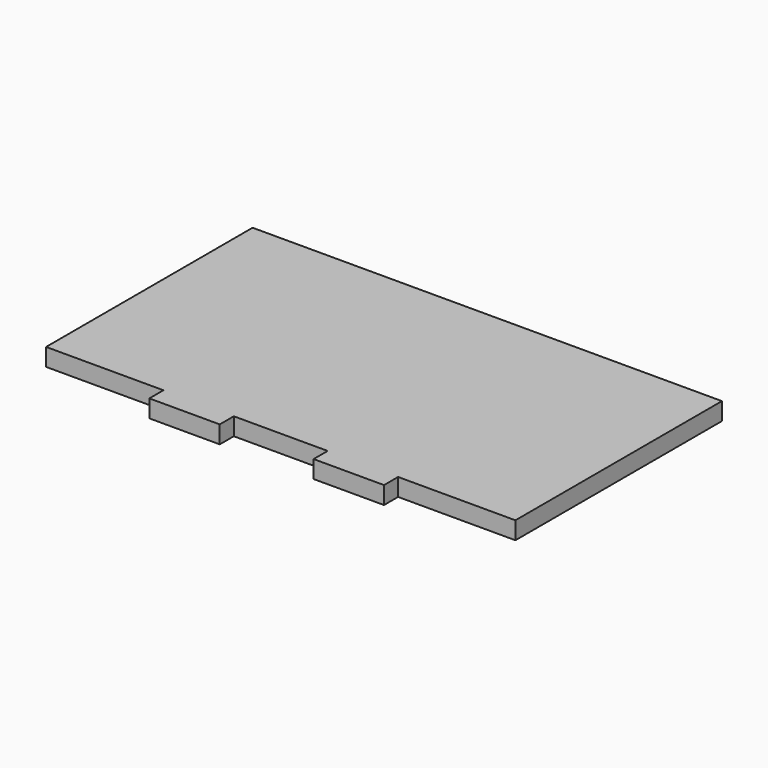
from build123d import *

# Parameters (mm, degrees)
F0_W     = 508
F0_H     = 279.4
F1_DEPTH = 19.05
F2_W     = 76.2
F2_H     = 19.05
F3_DEPTH = 19.05


with BuildPart() as f1:
    # F0 (on Top) → F1 (new body)
    with BuildSketch(Plane.XY):
        with Locations((14.913108, 127.9423)):
            Rectangle(F0_W, F0_H)
    extrude(amount=F1_DEPTH)

    # F2 (on face) → F3 (join)
    with BuildSketch(Plane.XZ.offset(11.7577)):
        with Locations((103.813108, 9.525)):
            Rectangle(F2_W, F2_H)
        with Locations((-73.986892, 9.525)):
            Rectangle(F2_W, F2_H)
    extrude(amount=F3_DEPTH)


solid = f1.part
